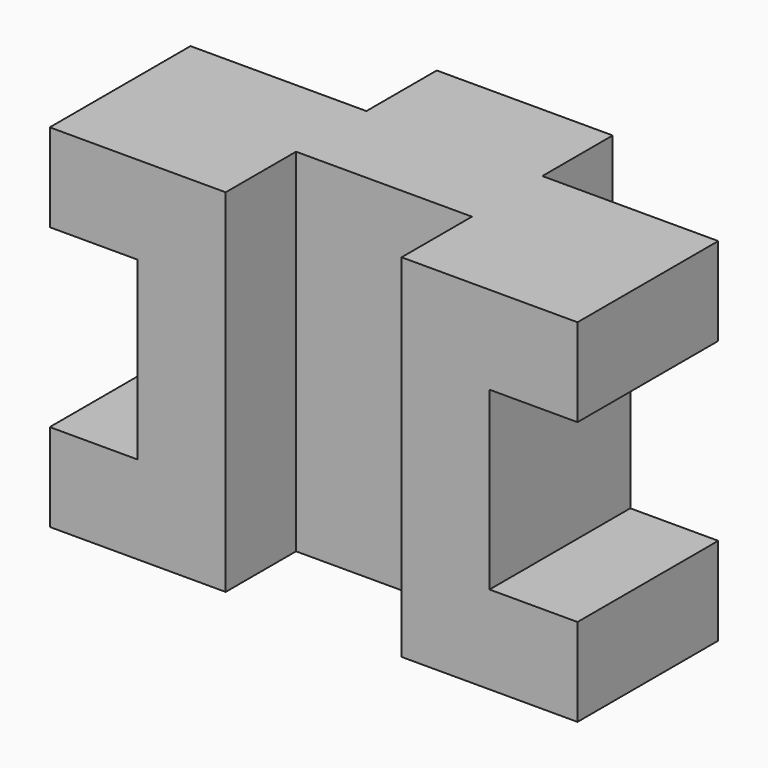
from build123d import *

# Parameters (mm, degrees)
F1_DEPTH = 40
F0_W     = 20
F0_H     = 10
F2_DEPTH = 40
F3_W     = 10
F3_H     = 20
F4_DEPTH = 25


with BuildPart() as f1:
    # F0 (on Top) → F1 (new body)
    with BuildSketch(Plane.XY):
        Polygon((30, -10), (30, 10), (10, 10), (-10, 10), (-30, 10), (-30, -10), (-10, -10), (-10, 0), (10, 0), (10, -10), align=None)
    extrude(amount=F1_DEPTH)

    # F0 (on Top) → F2 (join)
    with BuildSketch(Plane.XY):
        with Locations((0, 15)):
            Rectangle(F0_W, F0_H)
    extrude(amount=F2_DEPTH)

    # F3 (on face) → F4 (cut)
    with BuildSketch(Plane.XZ.offset(10)):
        with Locations((25, 20)):
            Rectangle(F3_W, F3_H)
        with Locations((-25, 20)):
            Rectangle(F3_W, F3_H)
    extrude(amount=-F4_DEPTH, mode=Mode.SUBTRACT)


solid = f1.part
